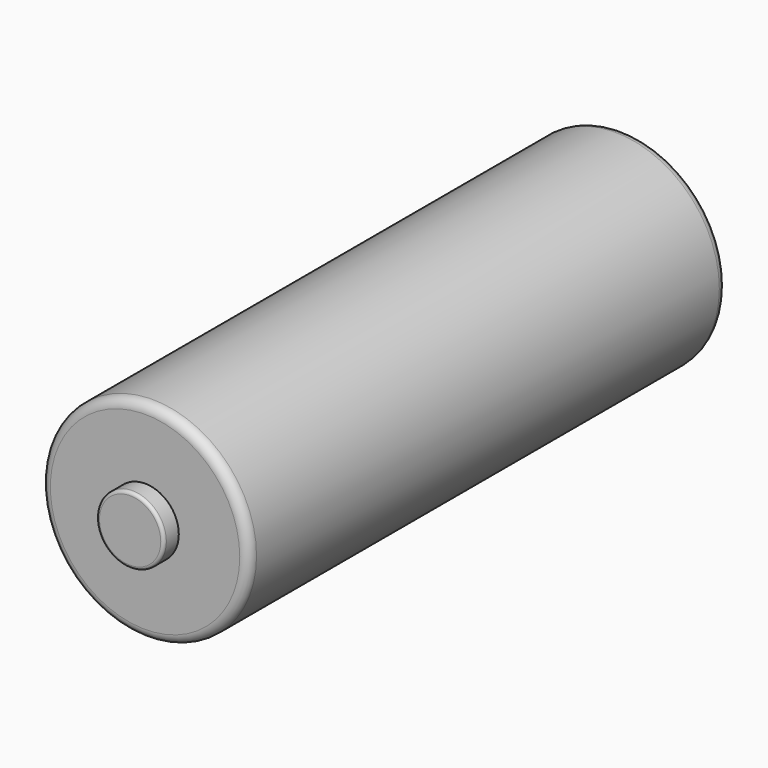
from build123d import *

# Parameters (mm, degrees)
F0_R     = 8.4963
F1_DEPTH = 48.768
F2_R     = 2.7559
F3_DEPTH = 1.524
F4_R     = 3.81
F5_DEPTH = 0.4064
F6_R     = 0.254
F7_R     = 0.762


with BuildPart() as f1:
    # F0 (on Front) → F1 (new body)
    with BuildSketch(Plane.XZ):
        Circle(F0_R)
    extrude(amount=-F1_DEPTH)

    # F2 (on face) → F3 (join)
    with BuildSketch(Plane.XZ):
        Circle(F2_R)
    extrude(amount=F3_DEPTH)

    # F4 (on face) → F5 (join)
    with BuildSketch(Plane(origin=(0, 48.768, 0), x_dir=(-1, 0, 0), z_dir=(0, 1, 0))):
        Circle(F4_R)
    extrude(amount=F5_DEPTH)

    # F6
    f6_edges = [f1.edges().sort_by_distance(p)[0] for p in [
        (3.81, 49.1744, 0),
        (-2.7559, -1.524, 0),
    ]]
    fillet(f6_edges, radius=F6_R)

    # F7
    f7_edges = [f1.edges().sort_by_distance(p)[0] for p in [
        (-8.4963, 48.768, 0),
        (-8.4963, 0, 0),
    ]]
    fillet(f7_edges, radius=F7_R)


solid = f1.part
